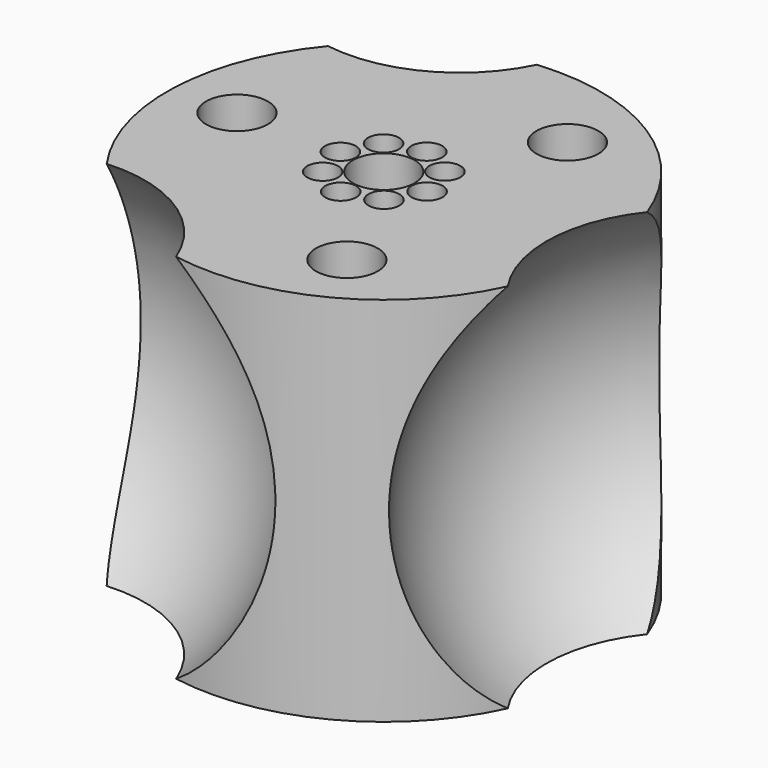
from build123d import *

# Parameters (mm, degrees)
F0_R          = 44.45
F0_R_2        = 16.51
F1_DEPTH      = 38.1
F1_DEPTH_BACK = 38.1
F6_R          = 3.175
F6_R_2        = 1.9685
F7_DEPTH      = 48.26
F8_R          = 6.35
F9_DEPTH      = 7.62
F10_R         = 3.429
F11_DEPTH     = 68.58
F12_R         = 6.35
F13_DEPTH     = 76.2


with BuildPart() as f1:
    # F0 (on Top) → F1 (new body, two sides)
    with BuildSketch(Plane.XY) as f1_sk:
        with Locations((-96.7949852347, 47.625)):
            Circle(F0_R)
        with Locations((-96.7949852347, 47.625)):
            Circle(F0_R_2, mode=Mode.SUBTRACT)
        with Locations((-96.7949852347, 47.625)):
            Circle(F0_R_2)
        with BuildLine():
            ThreePointArc((-88.1051627648, 52.1100670498), (-87.4115771175, 50.37826953), (-87.0594782396, 48.5462733292))
            ThreePointArc((-87.0594782396, 48.5462733292), (-85.6757800173, 47.965243489), (-85.103715896, 46.5778145407))
            ThreePointArc((-85.103715896, 46.5778145407), (-85.8323827306, 45.0488259953), (-87.478931514, 44.6517889292))
            ThreePointArc((-87.478931514, 44.6517889292), (-88.2130581693, 42.9367840447), (-89.2595036018, 41.3923956038))
            ThreePointArc((-89.2595036018, 41.3923956038), (-88.839336444, 40.7569162622), (-88.6919210429, 40.0094919292))
            ThreePointArc((-88.6919210429, 40.0094919292), (-90.1000831422, 38.1224270954), (-92.309918185, 38.9351775301))
            ThreePointArc((-92.309918185, 38.9351775301), (-94.0417157047, 38.2415918827), (-95.8737119056, 37.8894930048))
            ThreePointArc((-95.8737119056, 37.8894930048), (-98.0529677671, 35.9450498204), (-99.7681963056, 38.3089462792))
            ThreePointArc((-99.7681963056, 38.3089462792), (-101.48320119, 39.0430729345), (-103.0275896309, 40.089518367))
            ThreePointArc((-103.0275896309, 40.089518367), (-105.9434851899, 40.2555560033), (-105.4848077047, 43.1399329502))
            ThreePointArc((-105.4848077047, 43.1399329502), (-106.178393352, 44.87173047), (-106.5304922299, 46.7037266708))
            ThreePointArc((-106.5304922299, 46.7037266708), (-108.4749354144, 48.8829825323), (-106.1110389555, 50.5982110708))
            ThreePointArc((-106.1110389555, 50.5982110708), (-105.3769123002, 52.3132159553), (-104.3304668677, 53.8576043962))
            ThreePointArc((-104.3304668677, 53.8576043962), (-104.1644292314, 56.7734999551), (-101.2800522845, 56.3148224699))
            ThreePointArc((-101.2800522845, 56.3148224699), (-99.5482547647, 57.0084081173), (-97.7162585639, 57.3605069952))
            ThreePointArc((-97.7162585639, 57.3605069952), (-95.7414309138, 59.3162590358), (-93.7792997754, 57.3477693387))
            ThreePointArc((-93.7792997754, 57.3477693387), (-93.7899471678, 57.1433056087), (-93.8217741639, 56.9410537208))
            ThreePointArc((-93.8217741639, 56.9410537208), (-92.1067692795, 56.2069270655), (-90.5623808386, 55.160481633))
            ThreePointArc((-90.5623808386, 55.160481633), (-88.4202847093, 55.5757742752), (-87.210977164, 53.7595641919))
            ThreePointArc((-87.210977164, 53.7595641919), (-87.4489020941, 52.8214265806), (-88.1051627648, 52.1100670498))
        make_face(mode=Mode.SUBTRACT)
        with BuildLine():
            ThreePointArc((-87.478931514, 44.6517889292), (-89.0293967369, 46.7886116136), (-87.0594782396, 48.5462733292))
            ThreePointArc((-87.0594782396, 48.5462733292), (-87.4115771175, 50.37826953), (-88.1051627648, 52.1100670498))
            ThreePointArc((-88.1051627648, 52.1100670498), (-90.7124690483, 52.524684387), (-90.5623808386, 55.160481633))
            ThreePointArc((-90.5623808386, 55.160481633), (-92.1067692795, 56.2069270655), (-93.8217741639, 56.9410537208))
            ThreePointArc((-93.8217741639, 56.9410537208), (-95.9585968484, 55.3905884978), (-97.7162585639, 57.3605069952))
            ThreePointArc((-97.7162585639, 57.3605069952), (-99.5482547647, 57.0084081173), (-101.2800522845, 56.3148224699))
            ThreePointArc((-101.2800522845, 56.3148224699), (-101.0424845928, 55.8008459714), (-100.9610494266, 55.2405080708))
            ThreePointArc((-100.9610494266, 55.2405080708), (-102.1821250936, 53.4194234719), (-104.3304668677, 53.8576043962))
            ThreePointArc((-104.3304668677, 53.8576043962), (-105.3769123002, 52.3132159553), (-106.1110389555, 50.5982110708))
            ThreePointArc((-106.1110389555, 50.5982110708), (-104.988766028, 49.9120186247), (-104.5492545734, 48.6721854593))
            ThreePointArc((-104.5492545734, 48.6721854593), (-105.1303256251, 47.2757495806), (-106.5304922299, 46.7037266708))
            ThreePointArc((-106.5304922299, 46.7037266708), (-106.178393352, 44.87173047), (-105.4848077047, 43.1399329502))
            ThreePointArc((-105.4848077047, 43.1399329502), (-103.4723556943, 43.221010878), (-102.4419933055, 41.4904358081))
            ThreePointArc((-102.4419933055, 41.4904358081), (-102.5942832222, 40.7312433534), (-103.0275896309, 40.089518367))
            ThreePointArc((-103.0275896309, 40.089518367), (-101.48320119, 39.0430729345), (-99.7681963056, 38.3089462792))
            ThreePointArc((-99.7681963056, 38.3089462792), (-97.6377069641, 39.8600832689), (-95.8736706941, 37.9022306613))
            ThreePointArc((-95.8736706941, 37.9022306613), (-95.873680997, 37.8958617997), (-95.8737119056, 37.8894930048))
            ThreePointArc((-95.8737119056, 37.8894930048), (-94.0417157047, 38.2415918827), (-92.309918185, 38.9351775301))
            ThreePointArc((-92.309918185, 38.9351775301), (-91.8953008477, 41.5424838136), (-89.2595036018, 41.3923956038))
            ThreePointArc((-89.2595036018, 41.3923956038), (-88.2130581693, 42.9367840447), (-87.478931514, 44.6517889292))
        make_face()
    extrude(amount=F1_DEPTH)
    extrude(f1_sk.sketch, amount=-F1_DEPTH_BACK)

    # F2 (on Top) → F3 (revolve, cut)
    with BuildSketch(Plane.XY):
        with BuildLine():
            Line((-107.66797587, -48.3024583081), (-131.1163690465, -6.7040645718))
            Line((-131.1163690465, -6.7040645718), (-154.564762223, 34.8943291645))
            ThreePointArc((-154.564762223, 34.8943291645), (-172.7147627828, -30.1524577483), (-107.66797587, -48.3024583081))
        make_face()
        with BuildLine():
            Line((-174.4341057324, 105.0050152593), (-126.6846434119, 104.5127225599))
            Line((-126.6846434119, 104.5127225599), (-78.9351810914, 104.0204298605))
            ThreePointArc((-78.9351810914, 104.0204298605), (-126.1923507125, 152.2621848804), (-174.4341057324, 105.0050152593))
        make_face()
        with BuildLine():
            Line((-8.2828741018, 86.1724430488), (-32.5839432458, 45.0663420119))
            Line((-32.5839432458, 45.0663420119), (-56.8850123899, 3.960240975))
            ThreePointArc((-56.8850123899, 3.960240975), (8.5221577911, 20.7652728678), (-8.2828741018, 86.1724430488))
        make_face()
    revolve(axis=Axis((-150.5593745721, 104.7588689096, 0), (0.9999468571, -0.0103093629, 0)), mode=Mode.SUBTRACT)

    # F2 (on Top) → F4 (revolve, cut)
    with BuildSketch(Plane.XY):
        with BuildLine():
            Line((-8.2828741018, 86.1724430488), (-32.5839432458, 45.0663420119))
            Line((-32.5839432458, 45.0663420119), (-56.8850123899, 3.960240975))
            ThreePointArc((-56.8850123899, 3.960240975), (8.5221577911, 20.7652728678), (-8.2828741018, 86.1724430488))
        make_face()
    revolve(axis=Axis((-44.7344778179, 24.5132914934, 0), (-0.5089015988, -0.8608246992, 0)), mode=Mode.SUBTRACT)

    # F2 (on Top) → F5 (revolve, cut)
    with BuildSketch(Plane.XY):
        with BuildLine():
            Line((-107.66797587, -48.3024583081), (-131.1163690465, -6.7040645718))
            Line((-131.1163690465, -6.7040645718), (-154.564762223, 34.8943291645))
            ThreePointArc((-154.564762223, 34.8943291645), (-172.7147627828, -30.1524577483), (-107.66797587, -48.3024583081))
        make_face()
    revolve(axis=Axis((-119.3921724583, -27.5032614399, 0), (-0.4910452583, 0.8711340622, 0)), mode=Mode.SUBTRACT)

    # F6 (on face) → F7 (cut)
    with BuildSketch(Plane.XY.offset(38.1)):
        with Locations((-102.9295494266, 55.2405080708)):
            Circle(F6_R)
        with Locations((-102.9295494266, 55.2405080708)):
            Circle(F6_R_2, mode=Mode.SUBTRACT)
        with Locations((-95.7477997754, 57.3477693387)):
            Circle(F6_R)
        with Locations((-95.7477997754, 57.3477693387)):
            Circle(F6_R_2, mode=Mode.SUBTRACT)
        with Locations((-89.179477164, 53.7595641919)):
            Circle(F6_R)
        with Locations((-89.179477164, 53.7595641919)):
            Circle(F6_R_2, mode=Mode.SUBTRACT)
        with Locations((-87.072215896, 46.5778145407)):
            Circle(F6_R)
        with Locations((-87.072215896, 46.5778145407)):
            Circle(F6_R_2, mode=Mode.SUBTRACT)
        with Locations((-90.6604210429, 40.0094919292)):
            Circle(F6_R)
        with Locations((-90.6604210429, 40.0094919292)):
            Circle(F6_R_2, mode=Mode.SUBTRACT)
        with Locations((-97.8421706941, 37.9022306613)):
            Circle(F6_R)
        with BuildLine():
            ThreePointArc((-95.8736706941, 37.9022306613), (-95.873680997, 37.8958617997), (-95.8737119056, 37.8894930048))
            ThreePointArc((-95.8737119056, 37.8894930048), (-99.8106603912, 37.9085995228), (-95.8736706941, 37.9022306613))
        make_face(mode=Mode.SUBTRACT)
        with Locations((-104.4104933055, 41.4904358081)):
            Circle(F6_R)
        with Locations((-104.4104933055, 41.4904358081)):
            Circle(F6_R_2, mode=Mode.SUBTRACT)
        with Locations((-106.5177545734, 48.6721854593)):
            Circle(F6_R)
        with Locations((-106.5177545734, 48.6721854593)):
            Circle(F6_R_2, mode=Mode.SUBTRACT)
    extrude(amount=-F7_DEPTH, mode=Mode.SUBTRACT)

    # F8 (on face) → F9 (cut)
    with BuildSketch(Plane.XY.offset(38.1)):
        with Locations((-96.7949852347, 47.625)):
            Circle(F8_R)
    extrude(amount=-F9_DEPTH, mode=Mode.SUBTRACT)

    # F10 (on face) → F11 (cut, through all)
    with BuildSketch(Plane.XY.offset(30.48)):
        with Locations((-96.7949852347, 47.625)):
            Circle(F10_R)
    extrude(amount=-F11_DEPTH, mode=Mode.SUBTRACT)

    # F12 (on face) → F13 (cut, through all)
    with BuildSketch(Plane.XY.offset(38.1)):
        with Locations((-127.8890646346, 48.8640254414)):
            Circle(F12_R)
        with BuildLine():
            ThreePointArc((-76.7834769385, 79.3022345884), (-85.5434026681, 77.325191035), (-83.5663591148, 68.5652653054))
            Line((-83.5663591148, 68.5652653054), (-76.7834769385, 79.3022345884))
        make_face()
        with BuildLine():
            Line((-76.7834769385, 79.3022345884), (-83.5663591148, 68.5652653054))
            ThreePointArc((-83.5663591148, 68.5652653054), (-77.1100486093, 68.3723584434), (-73.8249180267, 73.9337499469))
            ThreePointArc((-73.8249180267, 73.9337499469), (-74.6135265232, 76.9986193642), (-76.7834769385, 79.3022345884))
        make_face()
        with Locations((-82.3209730429, 20.0772246117)):
            Circle(F12_R)
    extrude(amount=-F13_DEPTH, mode=Mode.SUBTRACT)


solid = f1.part
